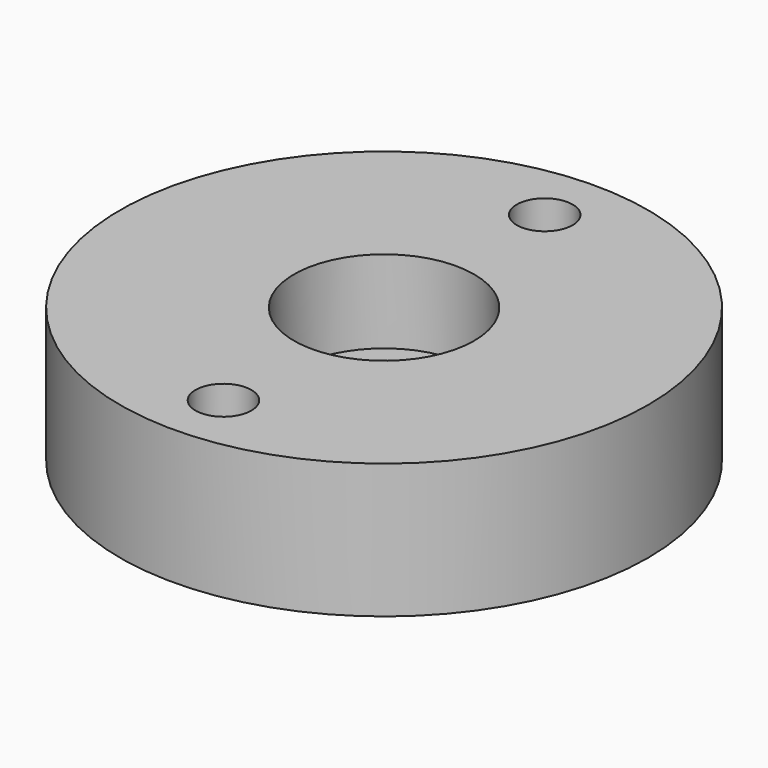
from build123d import *

# Parameters (mm, degrees)
F0_R     = 12.75
F0_R_2   = 1.35
F0_R_3   = 1.75
F1_DEPTH = 6.5
F2_R     = 4.35
F3_DEPTH = 4


with BuildPart() as f1:
    # F0 (on Top) → F1 (new body)
    with BuildSketch(Plane.XY):
        Circle(F0_R)
        with Locations((0, -9.7)):
            Circle(F0_R_2, mode=Mode.SUBTRACT)
        Circle(F0_R_3, mode=Mode.SUBTRACT)
        with Locations((0, 9.7)):
            Circle(F0_R_2, mode=Mode.SUBTRACT)
    extrude(amount=F1_DEPTH)

    # F2 (on face) → F3 (cut)
    with BuildSketch(Plane.XY.offset(6.5)):
        Circle(F2_R)
    extrude(amount=-F3_DEPTH, mode=Mode.SUBTRACT)


solid = f1.part
